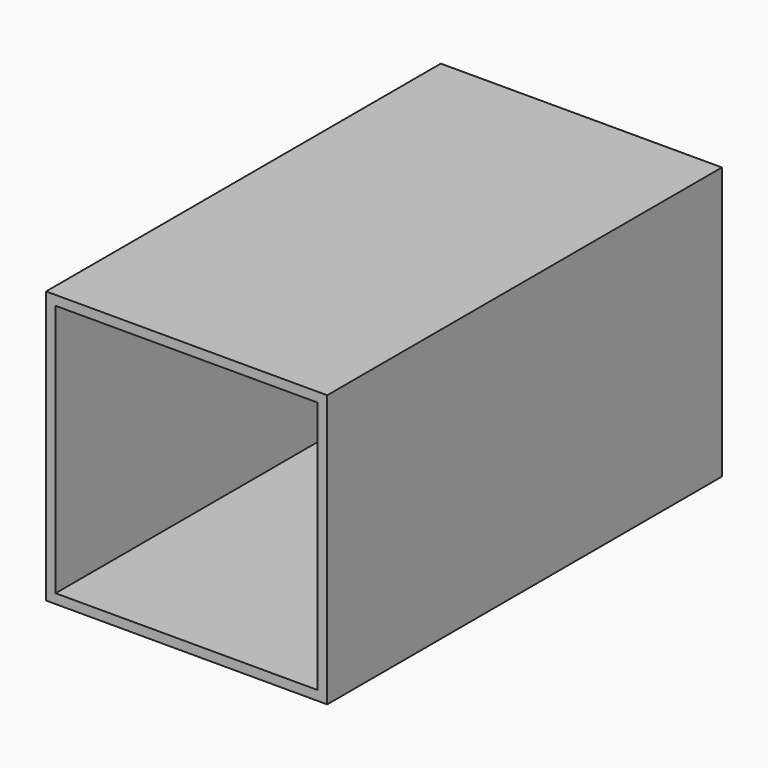
from build123d import *

# Parameters (mm, degrees)
F0_W      = 74.689984
F0_H      = 131.0824
F1_DEPTH  = 37.31034
F1_FACE_W = 74.689984
F1_FACE_H = 131.0824
F2_DEPTH  = 34.998059
F3_T      = -2.54


with BuildPart() as f1:
    # F0 (on Top) → F1 (new body)
    with BuildSketch(Plane.XY):
        Rectangle(F0_W, F0_H)
    extrude(amount=F1_DEPTH)

    # F1_face (on face) → F2 (join)
    with BuildSketch(Plane(origin=(0, 0, 0), x_dir=(1, 0, 0), z_dir=(0, 0, -1))):
        Rectangle(F1_FACE_W, F1_FACE_H)
    extrude(amount=F2_DEPTH)

    # F3
    f3_openings = [f1.faces().sort_by_distance(p)[0] for p in [
        (0, -65.5412, 1.15614),
    ]]
    offset(amount=F3_T, openings=f3_openings)


solid = f1.part
